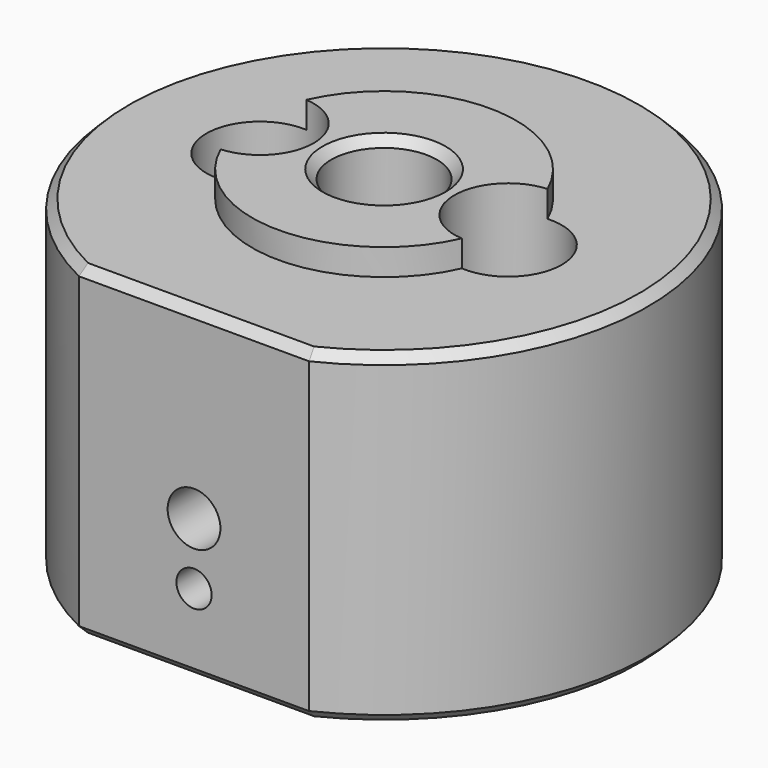
from build123d import *

# Parameters (mm, degrees)
F0_R     = 15
F0_R_2   = 3.05
F0_R_3   = 3
F1_DEPTH = 20
F2_DEPTH = 1
F3_R     = 15
F4_DEPTH = 1.5
F6_START = 5
F5_R     = 1
F5_R_2   = 1.5
F6_DEPTH = 20
F8_DEPTH = 25
F9_SIZE  = 0.5


with BuildPart() as f1:
    # F0 (on Top) → F1 (new body)
    with BuildSketch(Plane.XY):
        Circle(F0_R)
        with Locations((-7.05, 0)):
            Circle(F0_R_2, mode=Mode.SUBTRACT)
        Circle(F0_R_3, mode=Mode.SUBTRACT)
        with Locations((7.05, 0)):
            Circle(F0_R_2, mode=Mode.SUBTRACT)
    extrude(amount=F1_DEPTH)

    # F0 (on Top) → F2 (join)
    with BuildSketch(Plane.XY):
        with Locations((-7.05, 0)):
            Circle(F0_R_2)
        with Locations((7.05, 0)):
            Circle(F0_R_2)
    extrude(amount=F2_DEPTH)

    # F3 (on face) → F4 (cut)
    with BuildSketch(Plane.XY.offset(20)):
        Circle(F3_R)
        with BuildLine():
            ThreePointArc((-6.8546099291, 3.0437349951), (0, 7.5), (6.8546099291, 3.0437349951))
            ThreePointArc((6.8546099291, 3.0437349951), (9.1364515671, 2.2246842154), (10.1, 0))
            ThreePointArc((10.1, 0), (9.1364515671, -2.2246842154), (6.8546099291, -3.0437349951))
            ThreePointArc((6.8546099291, -3.0437349951), (0, -7.5), (-6.8546099291, -3.0437349951))
            ThreePointArc((-6.8546099291, -3.0437349951), (-10.1, 0), (-6.8546099291, 3.0437349951))
        make_face(mode=Mode.SUBTRACT)
    extrude(amount=-F4_DEPTH, mode=Mode.SUBTRACT)

    # F5 (on Front) → F6 (cut)
    with BuildSketch(Plane.XZ.offset(F6_START)):
        with Locations((0, 4.5)):
            Circle(F5_R)
        with Locations((0, 8)):
            Circle(F5_R_2)
    extrude(amount=F6_DEPTH, mode=Mode.SUBTRACT)

    # F7 (on face) → F8 (cut)
    with BuildSketch(Plane.XY):
        with BuildLine():
            Line((6.5383484153, -13.5), (-6.5383484153, -13.5))
            ThreePointArc((-6.5383484153, -13.5), (0, -15), (6.5383484153, -13.5))
        make_face()
    extrude(amount=F8_DEPTH, mode=Mode.SUBTRACT)

    # F9
    f9_edges = [f1.edges().sort_by_distance(p)[0] for p in [
        (0, 15, 0),
        (0, -13.5, 0),
        (-3, 0, 0),
        (0, 15, 18.5),
        (-3, 0, 20),
        (0, -13.5, 18.5),
    ]]
    chamfer(f9_edges, length=F9_SIZE)


solid = f1.part
